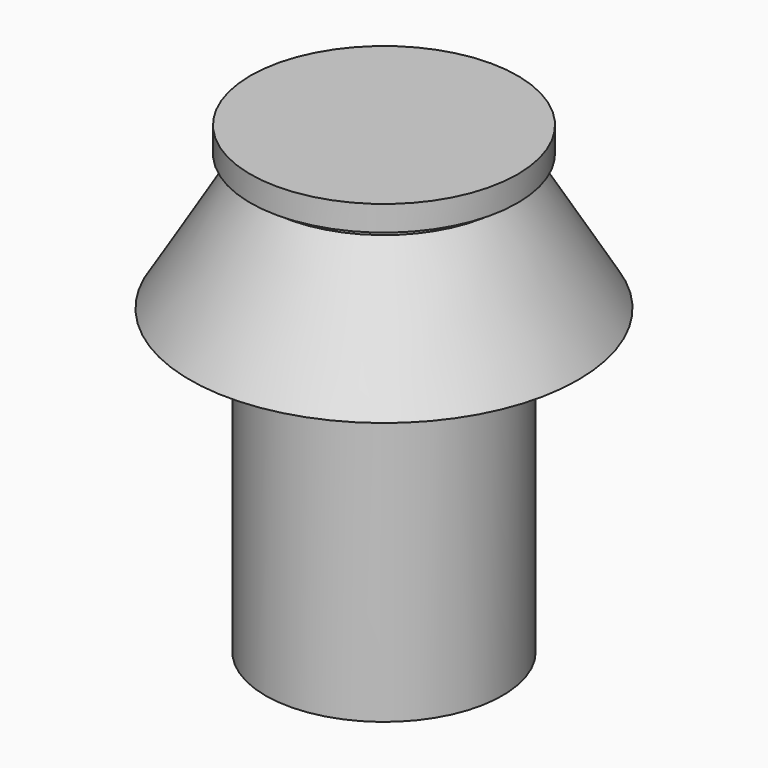
from build123d import *


with BuildPart() as part:
    # Sketch → Revolution (revolve)
    with BuildSketch(Plane.XZ):
        Polygon((0, 0), (-23.5, 0), (-23.5, 60), (-38.5, 60), (-23.5, 85), (-23.5, 87), (-26.5, 87), (-26.5, 92), (0, 92), align=None)
    revolve(axis=Axis((0, 0, 0), (0, 0, 1)))


solid = part.part
